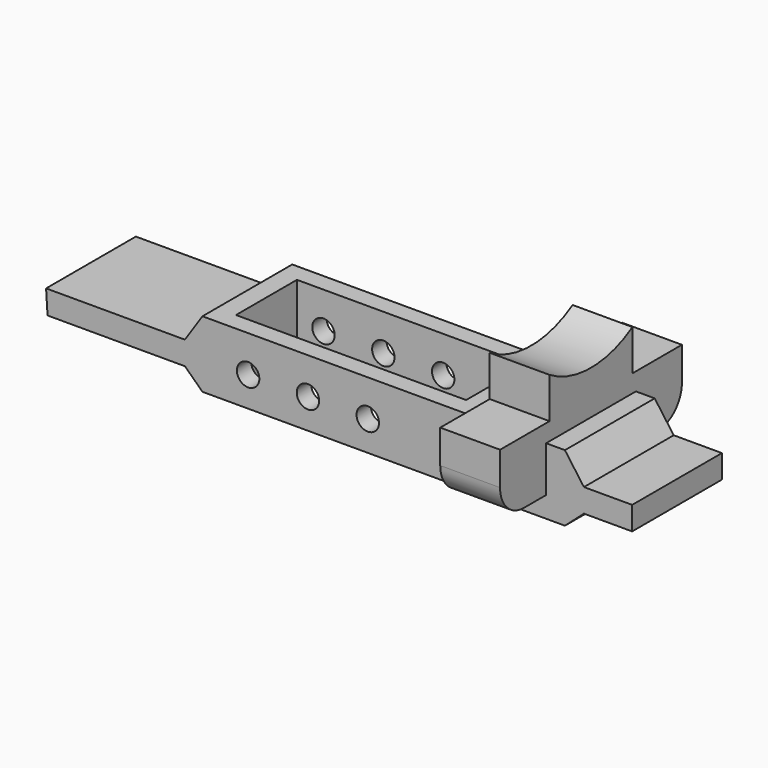
from build123d import *

# Parameters (mm, degrees)
F1_DEPTH = 7.5
F2_W     = 30.769231
F2_H     = 10.192308
F3_DEPTH = 8.891
F6_DEPTH = 8
F7_R     = 1.5
F8_DEPTH = 22.693308


with BuildPart() as f1:
    # F0 (on Front) → F1 (new body, symmetric)
    with BuildSketch(Plane.XZ):
        Polygon((-30.284615, 5.373077), (-48.846155, 5.373077), (-48.650771, 2.246923), (-30.284615, 2.246923), (-27.939999, 0), (20.515386, 0), (23.055386, 2.246923), (29.503077, 2.246923), (29.503077, 5.373077), (23.055386, 5.373077), (20.515386, 8.89), (-27.939999, 8.89), align=None)
    extrude(amount=F1_DEPTH, both=True)

    # F2 (on face) → F3 (cut, through all)
    with BuildSketch(Plane.XY.offset(8.89)):
        with Locations((-10, 0)):
            Rectangle(F2_W, F2_H)
    extrude(amount=-F3_DEPTH, mode=Mode.SUBTRACT)

    # F5 (on offset) → F6 (join)
    with BuildSketch(Plane.YZ.offset(10)):
        with BuildLine():
            ThreePointArc((-15.192308, 6.788462), (-14.020736, 3.960035), (-11.192308, 2.788462))
            Line((-11.192308, 2.788462), (11.192308, 2.788462))
            ThreePointArc((11.192308, 2.788462), (14.020736, 3.960035), (15.192308, 6.788462))
            Line((15.192308, 6.788462), (15.192308, 11.25))
            Line((15.192308, 11.25), (6.923077, 11.25))
            Line((6.923077, 11.25), (6.923077, 16.694458))
            ThreePointArc((6.923077, 16.694458), (0, 14.711539), (-6.923077, 16.694458))
            Line((-6.923077, 16.694458), (-6.923077, 11.25))
            Line((-6.923077, 11.25), (-15.192308, 11.25))
            Line((-15.192308, 11.25), (-15.192308, 6.788462))
        make_face()
    extrude(amount=F6_DEPTH)

    # F7 (on face) → F8 (cut, through all)
    with BuildSketch(Plane.XZ.offset(7.5)):
        with Locations((-21.837588, 4)):
            Circle(F7_R)
        with Locations((-13.837588, 4)):
            Circle(F7_R)
        with Locations((-5.837588, 4)):
            Circle(F7_R)
    extrude(amount=-F8_DEPTH, mode=Mode.SUBTRACT)


solid = f1.part
